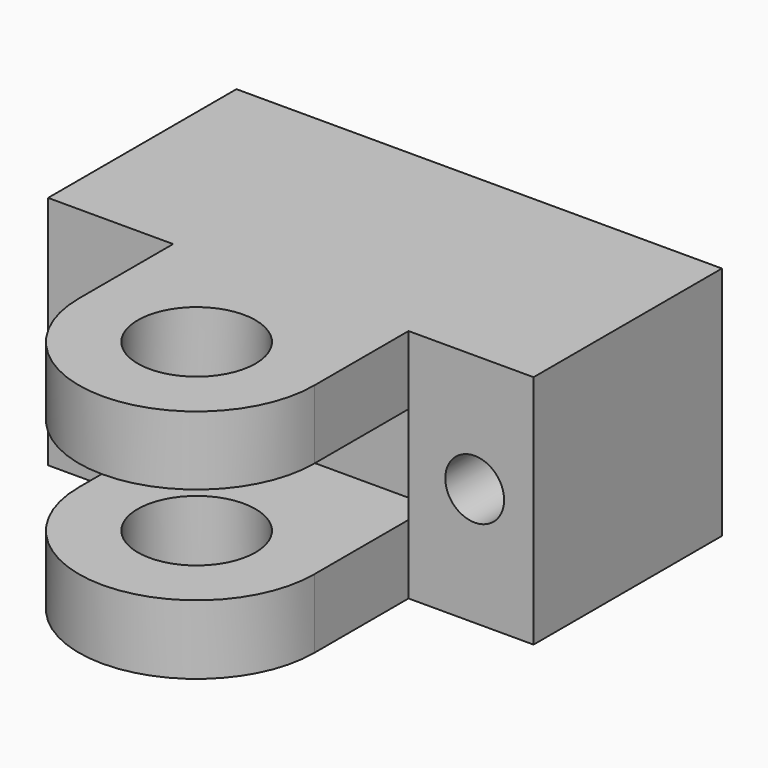
from build123d import *

# Parameters (mm, degrees)
F0_R     = 3.175
F1_DEPTH = 12.7
F2_R     = 1.5875
F3_DEPTH = 25.401
F4_R     = 3.302
F5_DEPTH = 2.3876
F6_W     = 12.7
F6_H     = 5.2578
F7_DEPTH = 12.701
F8_DEPTH = 1.5748


with BuildPart() as f1:
    # F0 (on Top) → F1 (new body)
    with BuildSketch(Plane.XY):
        with BuildLine():
            Line((26.1874, 0), (0, 0))
            Line((0, 0), (0, -12.7))
            Line((0, -12.7), (6.7437, -12.7))
            Line((6.7437, -12.7), (6.7437, -19.05))
            ThreePointArc((6.7437, -19.05), (13.0937, -25.4), (19.4437, -19.05))
            Line((19.4437, -19.05), (19.4437, -12.7))
            Line((19.4437, -12.7), (26.1874, -12.7))
            Line((26.1874, -12.7), (26.1874, 0))
        make_face()
        with Locations((13.0937, -19.05)):
            Circle(F0_R, mode=Mode.SUBTRACT)
    extrude(amount=F1_DEPTH)

    # F2 (on face) → F3 (cut, through all)
    with BuildSketch(Plane(origin=(0, 0, 0), x_dir=(-1, 0, 0), z_dir=(0, 1, 0))):
        with Locations((-3.175, 6.35)):
            Circle(F2_R)
        with Locations((-23.0124, 6.35)):
            Circle(F2_R)
    extrude(amount=-F3_DEPTH, mode=Mode.SUBTRACT)

    # F4 (on face) → F5 (cut)
    with BuildSketch(Plane(origin=(0, 0, 0), x_dir=(-1, 0, 0), z_dir=(0, 1, 0))):
        with Locations((-13.081, 6.35)):
            Circle(F4_R)
    extrude(amount=-F5_DEPTH, mode=Mode.SUBTRACT)

    # F6 (on face) → F7 (cut, through all)
    with BuildSketch(Plane.XZ.offset(12.7)):
        with Locations((13.0937, 6.3627)):
            Rectangle(F6_W, F6_H)
    extrude(amount=F7_DEPTH, mode=Mode.SUBTRACT)

    # F6 (on face) → F8 (cut)
    with BuildSketch(Plane.XZ.offset(12.7)):
        with Locations((13.0937, 6.3627)):
            Rectangle(F6_W, F6_H)
    extrude(amount=-F8_DEPTH, mode=Mode.SUBTRACT)


solid = f1.part
